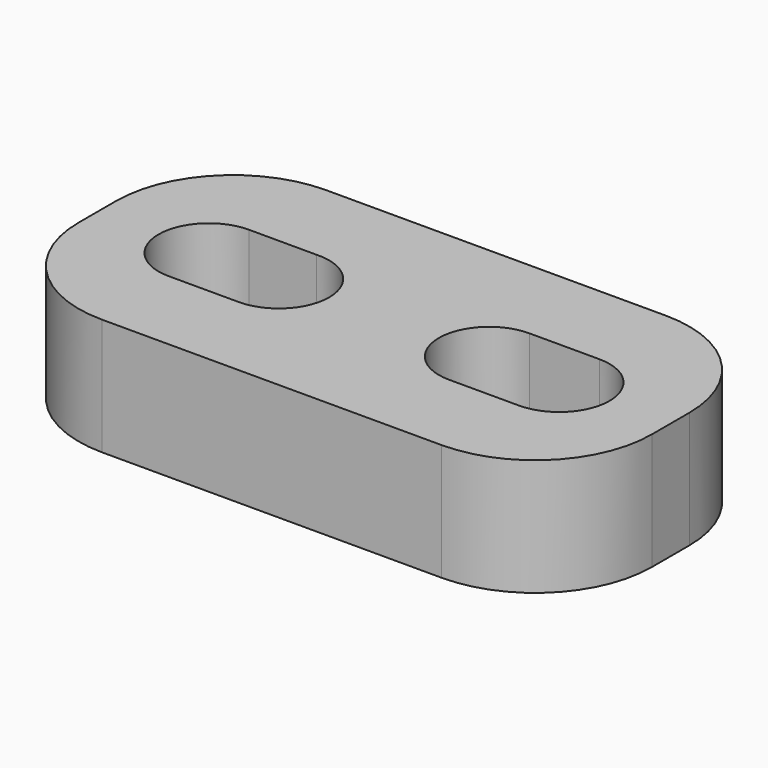
from build123d import *

# Parameters (mm, degrees)
F0_W     = 24.538338
F0_H     = 12
F1_DEPTH = 5
F2_R     = 5


with BuildPart() as f1:
    # F0 (on Top) → F1 (new body)
    with BuildSketch(Plane.XY):
        Rectangle(F0_W, F0_H)
        with BuildLine():
            ThreePointArc((-7.48712, -2.149961), (-9.64999, -0.00644), (-7.5, 2.15))
            Line((-7.5, 2.15), (-4.612382, 2.147061))
            ThreePointArc((-4.612382, 2.147061), (-3.019987, 1.559506), (-2.35, 0))
            ThreePointArc((-2.35, 0), (-2.97973, -1.520289), (-4.500028, -2.15))
            Line((-4.500028, -2.15), (-7.48712, -2.149961))
        make_face(mode=Mode.SUBTRACT)
        with BuildLine():
            ThreePointArc((7.5, 2.15), (9.02028, 1.52028), (9.65, 0))
            ThreePointArc((9.65, 0), (9.02028, -1.52028), (7.5, -2.15))
            Line((7.5, -2.15), (4.5, -2.15))
            ThreePointArc((4.5, -2.15), (2.35, 0), (4.5, 2.15))
            Line((4.5, 2.15), (7.5, 2.15))
        make_face(mode=Mode.SUBTRACT)
    extrude(amount=F1_DEPTH)

    # F2
    f2_edges = [f1.edges().sort_by_distance(p)[0] for p in [
        (12.269169, 6, 2.5),
        (12.269169, -6, 2.5),
        (-12.269169, -6, 2.5),
        (-12.269169, 6, 2.5),
    ]]
    fillet(f2_edges, radius=F2_R)


solid = f1.part
